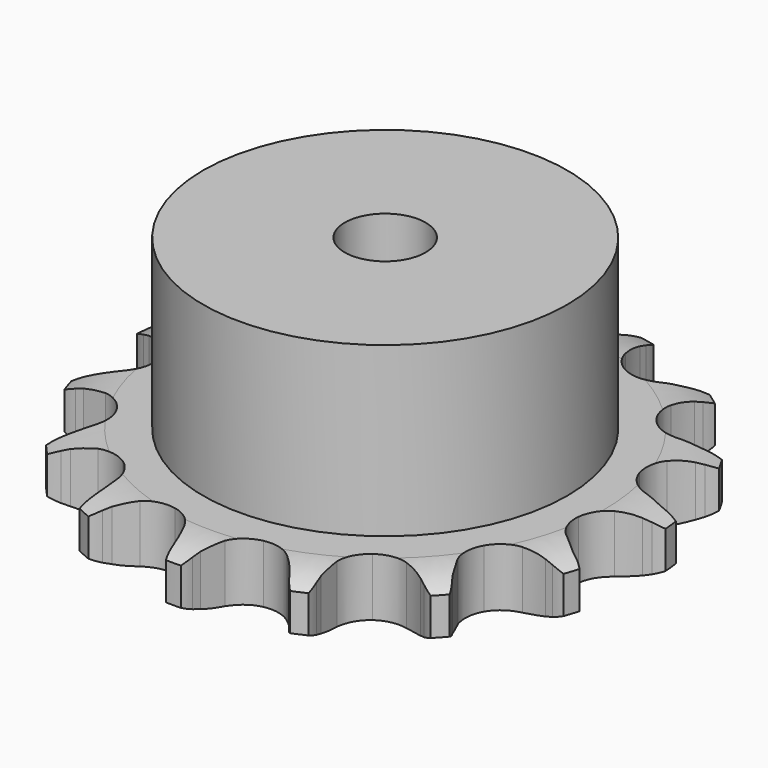
from build123d import *

# Parameters (mm, degrees)
PAD_DEPTH         = 7.2
SKETCH001_R       = 22.5
PAD001_DEPTH      = 28
SKETCH002_R       = 5
POCKET_DEPTH      = 0.001
POCKET_DEPTH_BACK = -28.001


with BuildPart() as part:
    # Sprocket → Pad (new body)
    with BuildSketch(Plane.XY):
        with BuildLine():
            ThreePointArc((-7.127097, 33.530356), (-6.027349, 32.389939), (-5.208009, 31.033962))
            Line((-5.208009, 31.033962), (-4.811253, 30.172674))
            ThreePointArc((-4.811253, 30.172674), (-4.15519, 28.954231), (-3.352899, 27.826689))
            ThreePointArc((-3.352899, 27.826689), (-1.857386, 26.647722), (0, 26.227438))
            ThreePointArc((0, 26.227438), (1.857386, 26.647722), (3.352899, 27.826689))
            ThreePointArc((3.352899, 27.826689), (4.15519, 28.954231), (4.811253, 30.172674))
            Line((4.811253, 30.172674), (5.208009, 31.033962))
            ThreePointArc((5.208009, 31.033962), (6.027349, 32.389939), (7.127097, 33.530356))
            ThreePointArc((7.127097, 33.530356), (7.667917, 32.041226), (7.864897, 30.469223))
            Line((7.864897, 30.469223), (7.877034, 29.521022))
            ThreePointArc((7.877034, 29.521022), (7.980792, 28.141074), (8.255108, 26.784692))
            ThreePointArc((8.255108, 26.784692), (9.141798, 25.099372), (10.66766, 23.959957))
            ThreePointArc((10.66766, 23.959957), (12.535412, 23.588438), (14.38116, 24.057198))
            Line((14.38116, 24.057198), (16.667631, 25.607196))
            ThreePointArc((16.667631, 25.607196), (17.017348, 25.927521), (17.380402, 26.232647))
            ThreePointArc((17.380402, 26.232647), (18.680433, 27.138138), (20.148952, 27.732653))
            ThreePointArc((20.148952, 27.732653), (20.037332, 26.152293), (19.57789, 24.636078))
            Line((19.57789, 24.636078), (19.20331, 23.764918))
            ThreePointArc((19.20331, 23.764918), (18.736823, 22.46207), (18.435732, 21.111379))
            ThreePointArc((18.435732, 21.111379), (18.560282, 19.211113), (19.490785, 17.549582))
            ThreePointArc((19.490785, 17.549582), (21.045951, 16.450499), (22.922787, 16.128))
            Line((22.922787, 16.128), (25.642023, 16.614002))
            ThreePointArc((25.642023, 16.614002), (26.091794, 16.76439), (26.547566, 16.895469))
            ThreePointArc((26.547566, 16.895469), (28.1035, 17.193906), (29.686869, 17.139722))
            ThreePointArc((29.686869, 17.139722), (28.942109, 15.741392), (27.905688, 14.543132))
            Line((27.905688, 14.543132), (27.209159, 13.899643))
            ThreePointArc((27.209159, 13.899643), (26.253086, 12.89917), (25.428651, 11.787716))
            ThreePointArc((25.428651, 11.787716), (24.769525, 10.001078), (24.943776, 8.104724))
            ThreePointArc((24.943776, 8.104724), (25.917453, 6.46812), (27.500857, 5.410123))
            Line((27.500857, 5.410123), (30.182677, 4.748095))
            ThreePointArc((30.182677, 4.748095), (30.654731, 4.702544), (31.124415, 4.636911))
            ThreePointArc((31.124415, 4.636911), (32.667216, 4.276692), (34.091658, 3.583178))
            ThreePointArc((34.091658, 3.583178), (32.842533, 2.60866), (31.40834, 1.935546))
            Line((31.40834, 1.935546), (30.510298, 1.630994))
            ThreePointArc((30.510298, 1.630994), (29.229953, 1.105886), (28.024725, 0.425851))
            ThreePointArc((28.024725, 0.425851), (26.695892, -0.938234), (26.083761, -2.741514))
            ThreePointArc((26.083761, -2.741514), (26.307593, -4.632657), (27.323778, -6.243213))
            Line((27.323778, -6.243213), (29.504472, -7.9388))
            ThreePointArc((29.504472, -7.9388), (29.917188, -8.172415), (30.319569, -8.423411))
            ThreePointArc((30.319569, -8.423411), (31.582474, -9.380002), (32.601689, -10.592931))
            ThreePointArc((32.601689, -10.592931), (31.064185, -10.975132), (29.480204, -11.006713))
            Line((29.480204, -11.006713), (28.535929, -10.919669))
            ThreePointArc((28.535929, -10.919669), (27.152695, -10.878616), (25.775069, -11.009649))
            ThreePointArc((25.775069, -11.009649), (24.006297, -11.715317), (22.713628, -13.113719))
            ThreePointArc((22.713628, -13.113719), (22.148911, -14.932405), (22.42217, -16.81704))
            Line((22.42217, -16.81704), (23.724676, -19.253005))
            ThreePointArc((23.724676, -19.253005), (24.00669, -19.634289), (24.272195, -20.027249))
            ThreePointArc((24.272195, -20.027249), (25.036836, -21.414807), (25.474591, -22.937425))
            ThreePointArc((25.474591, -22.937425), (23.914557, -22.661224), (22.454672, -22.045812))
            Line((22.454672, -22.045812), (21.627439, -21.582222))
            ThreePointArc((21.627439, -21.582222), (20.380489, -20.982106), (19.06867, -20.54148))
            ThreePointArc((19.06867, -20.54148), (17.165795, -20.466715), (15.416101, -21.218443))
            ThreePointArc((15.416101, -21.218443), (14.160481, -22.650204), (13.643565, -24.483049))
            Line((13.643565, -24.483049), (13.842667, -27.23819))
            ThreePointArc((13.842667, -27.23819), (13.945218, -27.701216), (14.027938, -28.168193))
            ThreePointArc((14.027938, -28.168193), (14.162101, -29.746799), (13.942706, -31.31583))
            ThreePointArc((13.942706, -31.31583), (12.629885, -30.428985), (11.546525, -29.272989))
            Line((11.546525, -29.272989), (10.979368, -28.513013))
            ThreePointArc((10.979368, -28.513013), (10.084312, -27.4576), (9.065124, -26.521502))
            ThreePointArc((9.065124, -26.521502), (7.357171, -25.679233), (5.452991, -25.654306))
            ThreePointArc((5.452991, -25.654306), (3.723575, -26.451577), (2.505864, -27.915716))
            Line((2.505864, -27.915716), (1.567136, -30.513645))
            ThreePointArc((1.567136, -30.513645), (1.472491, -30.978351), (1.358122, -31.438601))
            ThreePointArc((1.358122, -31.438601), (0.83861, -32.935298), (0, -34.279444))
            ThreePointArc((0, -34.279444), (-0.83861, -32.935298), (-1.358122, -31.438601))
            Line((-1.358122, -31.438601), (-1.567136, -30.513645))
            ThreePointArc((-1.567136, -30.513645), (-1.955535, -29.185425), (-2.505864, -27.915716))
            ThreePointArc((-2.505864, -27.915716), (-3.723575, -26.451577), (-5.452991, -25.654306))
            ThreePointArc((-5.452991, -25.654306), (-7.357171, -25.679233), (-9.065124, -26.521502))
            Line((-9.065124, -26.521502), (-10.979368, -28.513013))
            ThreePointArc((-10.979368, -28.513013), (-11.254843, -28.899048), (-11.546525, -29.272989))
            ThreePointArc((-11.546525, -29.272989), (-12.629885, -30.428985), (-13.942706, -31.31583))
            ThreePointArc((-13.942706, -31.31583), (-14.162101, -29.746799), (-14.027938, -28.168193))
            Line((-14.027938, -28.168193), (-13.842667, -27.23819))
            ThreePointArc((-13.842667, -27.23819), (-13.657251, -25.866824), (-13.643565, -24.483049))
            ThreePointArc((-13.643565, -24.483049), (-14.160481, -22.650204), (-15.416101, -21.218443))
            ThreePointArc((-15.416101, -21.218443), (-17.165795, -20.466715), (-19.06867, -20.54148))
            Line((-19.06867, -20.54148), (-21.627439, -21.582222))
            ThreePointArc((-21.627439, -21.582222), (-22.036113, -21.822837), (-22.454672, -22.045812))
            ThreePointArc((-22.454672, -22.045812), (-23.914557, -22.661224), (-25.474591, -22.937425))
            ThreePointArc((-25.474591, -22.937425), (-25.036836, -21.414807), (-24.272195, -20.027249))
            Line((-24.272195, -20.027249), (-23.724676, -19.253005))
            ThreePointArc((-23.724676, -19.253005), (-22.997505, -18.075615), (-22.42217, -16.81704))
            ThreePointArc((-22.42217, -16.81704), (-22.148911, -14.932405), (-22.713628, -13.113719))
            ThreePointArc((-22.713628, -13.113719), (-24.006297, -11.715317), (-25.775069, -11.009649))
            Line((-25.775069, -11.009649), (-28.535929, -10.919669))
            ThreePointArc((-28.535929, -10.919669), (-29.007138, -10.973259), (-29.480204, -11.006713))
            ThreePointArc((-29.480204, -11.006713), (-31.064185, -10.975132), (-32.601689, -10.592931))
            ThreePointArc((-32.601689, -10.592931), (-31.582474, -9.380002), (-30.319569, -8.423411))
            Line((-30.319569, -8.423411), (-29.504472, -7.9388))
            ThreePointArc((-29.504472, -7.9388), (-28.361282, -7.158968), (-27.323778, -6.243213))
            ThreePointArc((-27.323778, -6.243213), (-26.307593, -4.632657), (-26.083761, -2.741514))
            ThreePointArc((-26.083761, -2.741514), (-26.695892, -0.938234), (-28.024725, 0.425851))
            Line((-28.024725, 0.425851), (-30.510298, 1.630994))
            ThreePointArc((-30.510298, 1.630994), (-30.962566, 1.773695), (-31.40834, 1.935546))
            ThreePointArc((-31.40834, 1.935546), (-32.842533, 2.60866), (-34.091658, 3.583178))
            ThreePointArc((-34.091658, 3.583178), (-32.667216, 4.276692), (-31.124415, 4.636911))
            Line((-31.124415, 4.636911), (-30.182677, 4.748095))
            ThreePointArc((-30.182677, 4.748095), (-28.821135, 4.995529), (-27.500857, 5.410123))
            ThreePointArc((-27.500857, 5.410123), (-25.917453, 6.46812), (-24.943776, 8.104724))
            ThreePointArc((-24.943776, 8.104724), (-24.769525, 10.001078), (-25.428651, 11.787716))
            Line((-25.428651, 11.787716), (-27.209159, 13.899643))
            ThreePointArc((-27.209159, 13.899643), (-27.564285, 14.213961), (-27.905688, 14.543132))
            ThreePointArc((-27.905688, 14.543132), (-28.942109, 15.741392), (-29.686869, 17.139722))
            ThreePointArc((-29.686869, 17.139722), (-28.1035, 17.193906), (-26.547566, 16.895469))
            Line((-26.547566, 16.895469), (-25.642023, 16.614002))
            ThreePointArc((-25.642023, 16.614002), (-24.297552, 16.286255), (-22.922787, 16.128))
            ThreePointArc((-22.922787, 16.128), (-21.045951, 16.450499), (-19.490785, 17.549582))
            ThreePointArc((-19.490785, 17.549582), (-18.560282, 19.211113), (-18.435732, 21.111379))
            Line((-18.435732, 21.111379), (-19.20331, 23.764918))
            ThreePointArc((-19.20331, 23.764918), (-19.399888, 24.196504), (-19.57789, 24.636078))
            ThreePointArc((-19.57789, 24.636078), (-20.037332, 26.152293), (-20.148952, 27.732653))
            ThreePointArc((-20.148952, 27.732653), (-18.680433, 27.138138), (-17.380402, 26.232647))
            Line((-17.380402, 26.232647), (-16.667631, 25.607196))
            ThreePointArc((-16.667631, 25.607196), (-15.572701, 24.760939), (-14.38116, 24.057198))
            ThreePointArc((-14.38116, 24.057198), (-12.535412, 23.588438), (-10.66766, 23.959957))
            ThreePointArc((-10.66766, 23.959957), (-9.141798, 25.099372), (-8.255108, 26.784692))
            Line((-8.255108, 26.784692), (-7.877034, 29.521022))
            ThreePointArc((-7.877034, 29.521022), (-7.881075, 29.995252), (-7.864897, 30.469223))
            ThreePointArc((-7.864897, 30.469223), (-7.667917, 32.041226), (-7.127097, 33.530356))
        make_face()
    extrude(amount=PAD_DEPTH)

    # Sketch → Groove (revolve, cut)
    with BuildSketch(Plane.XZ):
        with BuildLine():
            Line((27.083431, 0), (32.75, 0))
            Line((38.416569, 0), (32.75, 0))
            Line((38.416569, 7.2), (38.416569, 0))
            Line((32.75, 7.2), (38.416569, 7.2))
            Line((27.083431, 7.2), (32.75, 7.2))
            ThreePointArc((32.75, 5.9), (29.99032, 6.870833), (27.083431, 7.2))
            Line((32.75, 1.3), (32.75, 5.9))
            ThreePointArc((27.083431, 0), (29.99032, 0.329167), (32.75, 1.3))
        make_face()
    revolve(axis=Axis((0, 0, 0), (0, 0, 1)), mode=Mode.SUBTRACT)

    # Sketch001 → Pad001 (join)
    with BuildSketch(Plane.XY):
        Circle(SKETCH001_R)
    extrude(amount=PAD001_DEPTH)

    # Sketch002 → Pocket (cut, two sides)
    with BuildSketch(Plane.XY) as pocket_sk:
        Circle(SKETCH002_R)
    extrude(amount=-POCKET_DEPTH, mode=Mode.SUBTRACT)
    extrude(pocket_sk.sketch, amount=-POCKET_DEPTH_BACK, mode=Mode.SUBTRACT)


solid = part.part
